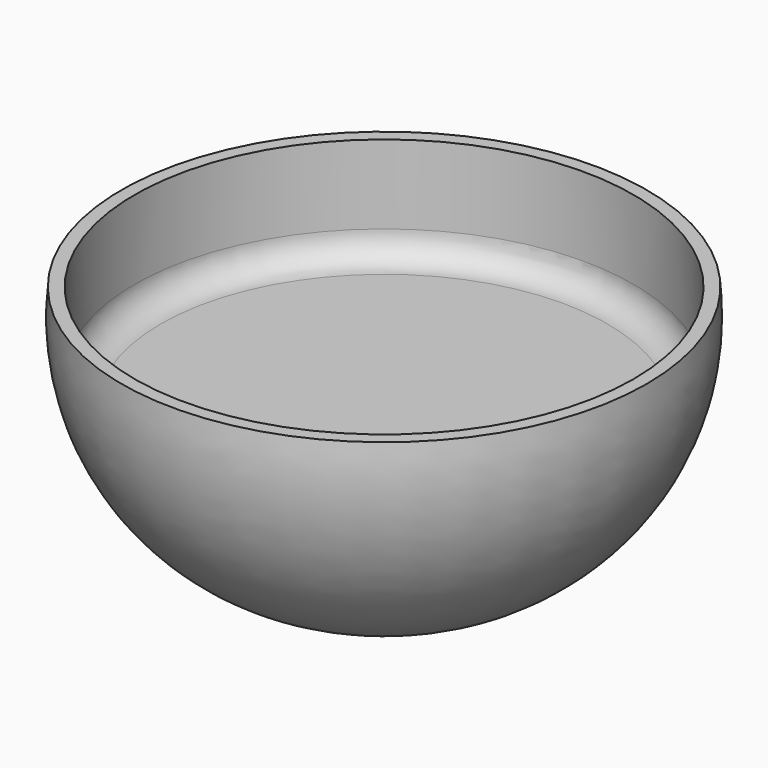
from build123d import *

# Parameters (mm, degrees)
F2_R     = 48.26
F3_DEPTH = 20.32
F4_R     = 5.08


with BuildPart() as f1:
    # F0 (on Front) → F1 (revolve)
    with BuildSketch(Plane.XZ):
        with BuildLine():
            Line((22.247079, 20.951111), (-28.552921, 20.951111))
            Line((-28.552921, 20.951111), (-28.552921, -29.848889))
            ThreePointArc((-28.552921, -29.848889), (8.998086, -16.599896), (22.247079, 20.951111))
        make_face()
    revolve(axis=Axis((-28.552921, 0, -4.448889), (0, 0, -1)))

    # F2 (on face) → F3 (cut)
    with BuildSketch(Plane.XY.offset(20.951111)):
        with Locations((-28.552921, 0)):
            Circle(F2_R)
    extrude(amount=-F3_DEPTH, mode=Mode.SUBTRACT)

    # F4
    f4_edges = [f1.edges().sort_by_distance(p)[0] for p in [
        (-76.812921, 0, 0.631111),
    ]]
    fillet(f4_edges, radius=F4_R)


solid = f1.part
